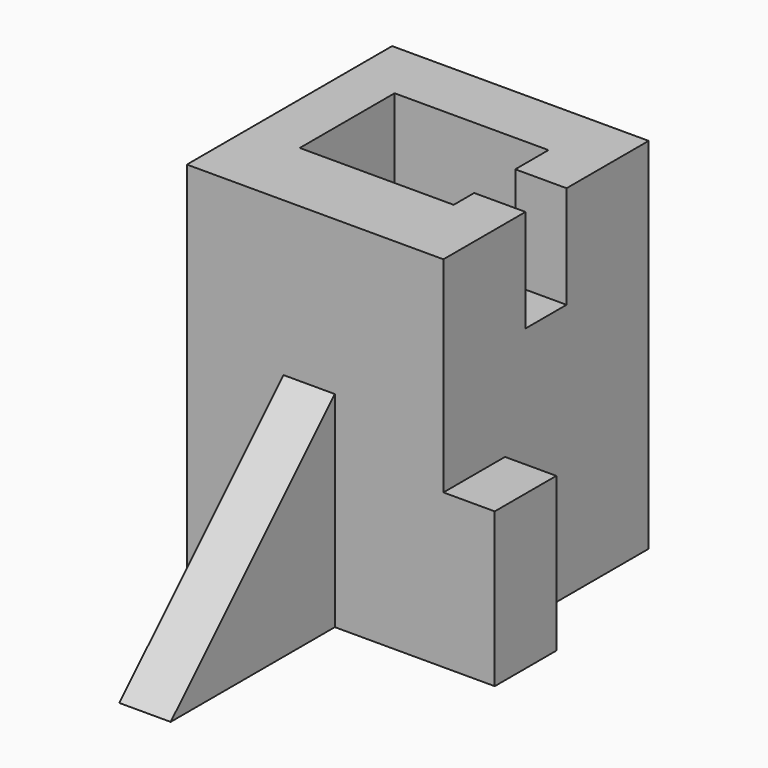
from build123d import *

# Parameters (mm, degrees)
F0_W      = 25
F0_H      = 25
F1_DEPTH  = 35
F2_W      = 7.5
F2_H      = 15
F3_DEPTH  = 5
F4_W      = 5
F4_H      = 5
F5_DEPTH  = 10
F7_DEPTH  = 18
F8_W      = 5
F8_H      = 20
F9_DEPTH  = 20
F11_DEPTH = 29.5


with BuildPart() as f1:
    # F0 (on Top) → F1 (new body)
    with BuildSketch(Plane.XY):
        with Locations((-0.820497, -3.517498)):
            Rectangle(F0_W, F0_H)
    extrude(amount=F1_DEPTH)

    # F2 (on face) → F3 (join)
    with BuildSketch(Plane.YZ.offset(11.679503)):
        with Locations((-12.267498, 7.5)):
            Rectangle(F2_W, F2_H)
    extrude(amount=F3_DEPTH)

    # F4 (on face) → F5 (cut)
    with BuildSketch(Plane.XY.offset(35)):
        with Locations((9.179503, -3.517498)):
            Rectangle(F4_W, F4_H)
    extrude(amount=-F5_DEPTH, mode=Mode.SUBTRACT)

    # F6 (on face) → F7 (cut)
    with BuildSketch(Plane.XY.offset(35)):
        Polygon((6.679503, 3.030628), (-8.320497, 3.030628), (-8.320497, -8.517498), (6.679503, -8.517498), (6.679503, -6.017498), (6.679503, -1.017498), align=None)
    extrude(amount=-F7_DEPTH, mode=Mode.SUBTRACT)

    # F8 (on face) → F9 (join)
    with BuildSketch(Plane.XZ.offset(16.017498)):
        with Locations((-1.402237, 10)):
            Rectangle(F8_W, F8_H)
    extrude(amount=F9_DEPTH)

    # F10 (on face) → F11 (cut)
    with BuildSketch(Plane(origin=(-3.902237, 0, 0), x_dir=(0, -1, 0), z_dir=(-1, 0, 0))):
        Polygon((36.017498, 20), (16.017498, 20), (36.017498, 0), align=None)
    extrude(amount=-F11_DEPTH, mode=Mode.SUBTRACT)


solid = f1.part
